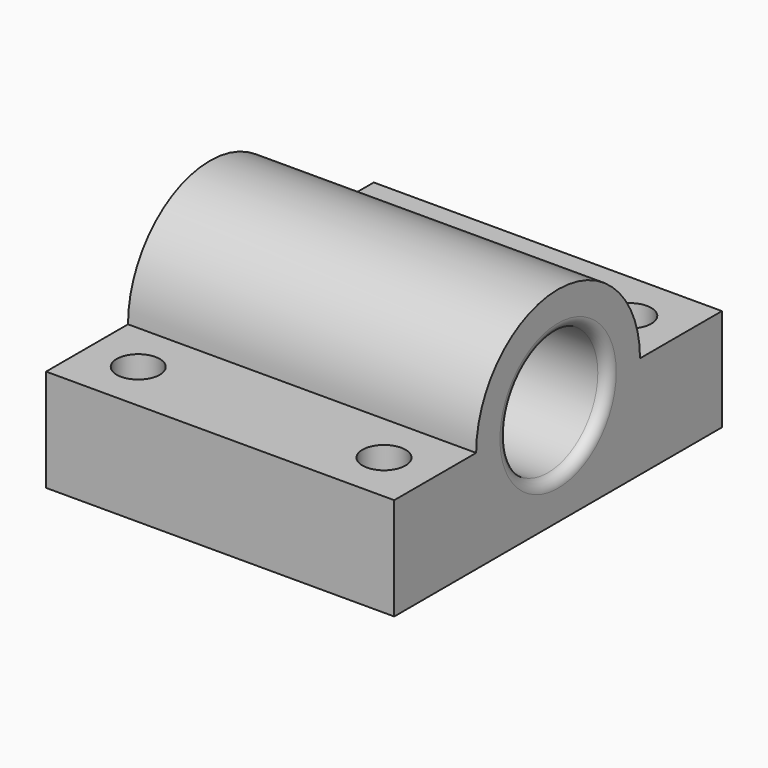
from build123d import *

# Parameters (mm, degrees)
SKETCH_R                 = 3.05
PAD_DEPTH                = 7
PAD_DEPTH_BACK           = 10
SKETCH001_R              = 1.05
POCKET_DEPTH             = 5
FILLET_R                 = 0.5
CLONE001_PLACEMENT_ANGLE = 90


with BuildPart() as part:
    # Sketch → Pad (new body, two sides)
    with BuildSketch(Plane.XZ) as pad_sk:
        with BuildLine():
            Line((10, 0), (10, -5))
            Line((10, -5), (-10, -5))
            Line((-10, -5), (-10, 0))
            Line((-10, 0), (-5, 0))
            ThreePointArc((5, 0), (0, 5), (-5, 0))
            Line((10, 0), (5, 0))
        make_face()
        Circle(SKETCH_R, mode=Mode.SUBTRACT)
    extrude(amount=PAD_DEPTH)
    extrude(pad_sk.sketch, amount=-PAD_DEPTH_BACK)

    # Sketch001 → Pocket (cut)
    with BuildSketch(Plane(origin=(0, 0, -5), x_dir=(1, 0, 0), z_dir=(0, 0, -1))):
        with Locations((-7.5, 4.5)):
            Circle(SKETCH001_R)
        with Locations((-7.5, -7.5)):
            Circle(SKETCH001_R)
        with Locations((7.5, -7.5)):
            Circle(SKETCH001_R)
        with Locations((7.5, 4.5)):
            Circle(SKETCH001_R)
    extrude(amount=-POCKET_DEPTH, mode=Mode.SUBTRACT)

    # Fillet
    fillet_edges = [part.edges().sort_by_distance(p)[0] for p in [
        (-3.05, 10, 0),
        (-3.05, -7, 0),
    ]]
    fillet(fillet_edges, radius=FILLET_R)


with BuildPart() as part_1:
    # Clone001 placement: moved
    add(part.part.moved(Location((44, -105, 11))).rotate(Axis((44, -105, 11), (0, 0, 1)), CLONE001_PLACEMENT_ANGLE))


solid = part_1.part
